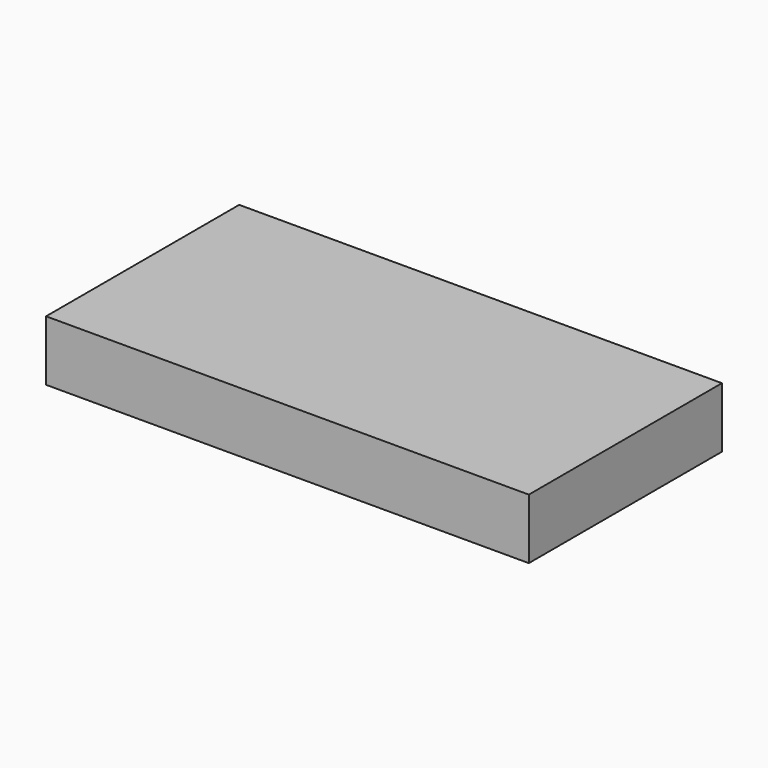
from build123d import *

# Parameters (mm, degrees)
SKETCH_W      = 40
SKETCH_H      = 20
EXTRUDE_DEPTH = 5


with BuildPart() as part:
    # Sketch → Extrude (new body)
    with BuildSketch(Plane.XY):
        with Locations((-20, 10)):
            Rectangle(SKETCH_W, SKETCH_H)
    extrude(amount=EXTRUDE_DEPTH)


solid = part.part
